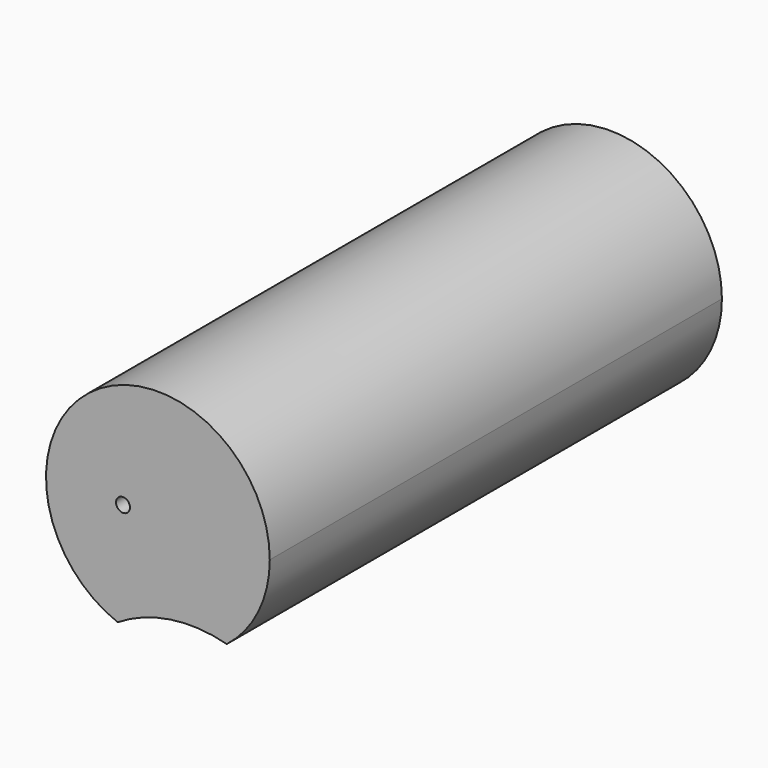
from build123d import *

# Parameters (mm, degrees)
F1_DEPTH = 202.4931032211
F3_D     = 5


with BuildPart() as f1:
    # F0 (on Front) → F1 (new body)
    with BuildSketch(Plane.XZ):
        with BuildLine():
            ThreePointArc((37.1810367805, 13.1984747494), (48.5343077543, 27.2157997397), (52.5926258795, 44.7916984558))
            ThreePointArc((52.5926258795, 44.7916984558), (-10.1844090488, 77.841559279), (-1.9017406989, 7.3813093516))
            ThreePointArc((-1.9017406989, 7.3813093516), (17.0299969881, 14.3858485523), (37.1810367805, 13.1984747494))
        make_face()
    extrude(amount=F1_DEPTH)

    # F3 (through all)
    with Locations(Plane(origin=(0, 0, 0), x_dir=(-1, 0, 0), z_dir=(0, 1, 0))):
        with Locations((0, 45.0014583766)):
            Hole(F3_D / 2)


solid = f1.part
